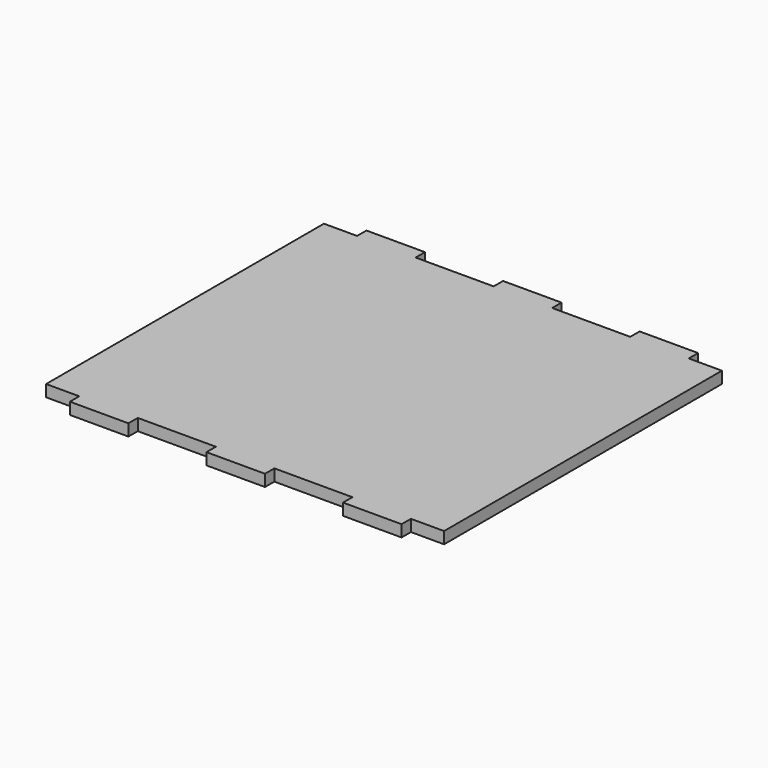
from build123d import *

# Parameters (mm, degrees)
SKETCH008_W                   = 102
SKETCH008_H                   = 95
PAD004_DEPTH                  = 3
SKETCH019_W                   = 8.5
SKETCH019_H                   = 3
SKETCH019_W_2                 = 20
POCKET014_DEPTH               = 281.841456
SKETCH019_MIRRORED017_2_W     = 8.5
SKETCH019_MIRRORED017_2_H     = 3
SKETCH019_MIRRORED017_2_W_2   = 20
POCKET014_MIRRORED017_2_DEPTH = 281.841456


with BuildPart() as part:
    # Sketch008 → Pad004 (new body)
    with BuildSketch(Plane.XY):
        Rectangle(SKETCH008_W, SKETCH008_H)
    extrude(amount=PAD004_DEPTH)

    # Sketch019 → Pocket014 (cut, through all)
    with BuildSketch(Plane.XY):
        with Locations((-46.75, 46)):
            Rectangle(SKETCH019_W, SKETCH019_H)
        with Locations((-17.5, 46)):
            Rectangle(SKETCH019_W_2, SKETCH019_H)
    pocket014 = extrude(amount=POCKET014_DEPTH, mode=Mode.SUBTRACT)

    # Sketch019 Mirrored017 2 → Pocket014 Mirrored017 2 (cut, through all)
    with BuildSketch(Plane(origin=(0, 0, 0), x_dir=(-1, 0, 0), z_dir=(0, 0, -1))):
        with Locations((-46.75, 46)):
            Rectangle(SKETCH019_MIRRORED017_2_W, SKETCH019_MIRRORED017_2_H)
        with Locations((-17.5, 46)):
            Rectangle(SKETCH019_MIRRORED017_2_W_2, SKETCH019_MIRRORED017_2_H)
    pocket014_mirrored017_2 = extrude(amount=-POCKET014_MIRRORED017_2_DEPTH, mode=Mode.SUBTRACT)

    # Mirrored018: Pocket014, Pocket014 Mirrored017 2 across Sketch019 H_Axis
    add(pocket014.mirror(Plane.ZX), mode=Mode.SUBTRACT)
    add(pocket014_mirrored017_2.mirror(Plane.ZX), mode=Mode.SUBTRACT)


with BuildPart() as part_1:
    # Body002 placement: moved
    add(part.part.moved(Location((0, 0, 2))))


solid = part_1.part
